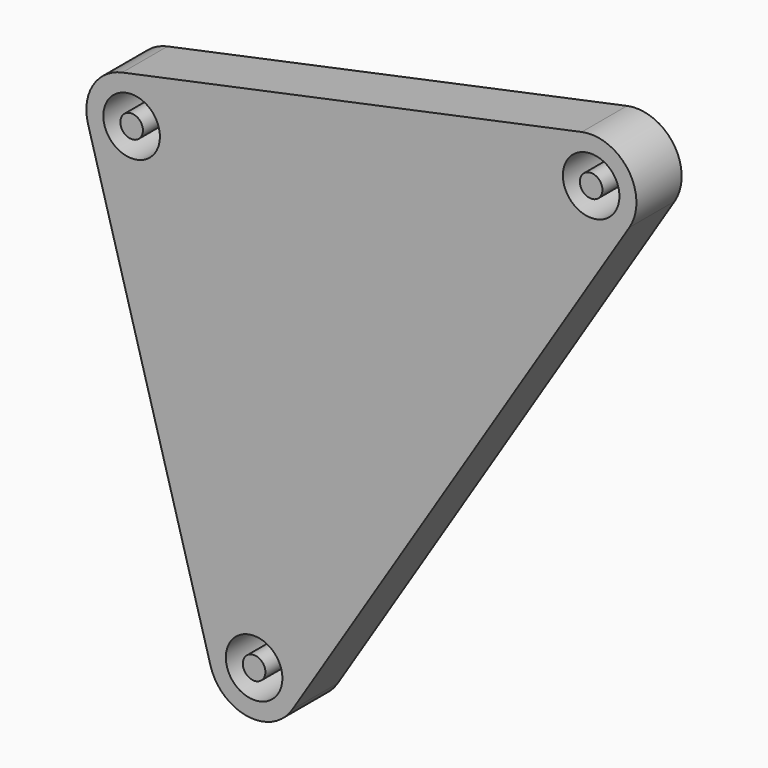
from build123d import *

# Parameters (mm, degrees)
F0_R     = 1
F1_DEPTH = 5
F0_R_2   = 2.5


with BuildPart() as f1:
    # F0 (on Front) → F1 (new body)
    with BuildSketch(Plane.XZ):
        with Locations((-10.8230100318, 38.6118175414)):
            Circle(F0_R)
    extrude(amount=F1_DEPTH)


with BuildPart() as f1b:
    # F0 (on Front) → F1, piece 2 (new body)
    with BuildSketch(Plane.XZ):
        with BuildLine():
            Line((-14.6745629038, 37.5322155432), (-3.851552872, -1.0796019982))
            ThreePointArc((-3.851552872, -1.0796019982), (-0.5773645618, -3.9581119442), (3.3826653178, -2.1348478512))
            Line((3.3826653178, -2.1348478512), (33.1637928422, 45.053333332))
            ThreePointArc((33.1637928422, 45.053333332), (33.0643281958, 49.4730429626), (28.9544900649, 51.1018329958))
            Line((28.9544900649, 51.1018329958), (-11.6496474913, 42.5254693541))
            ThreePointArc((-11.6496474913, 42.5254693541), (-14.2441958057, 40.6843734275), (-14.6745629038, 37.5322155432))
        make_face()
        Circle(F0_R_2, mode=Mode.SUBTRACT)
        with Locations((-10.8230100318, 38.6118175414)):
            Circle(F0_R_2, mode=Mode.SUBTRACT)
        with Locations((29.7811275244, 47.1881811832)):
            Circle(F0_R_2, mode=Mode.SUBTRACT)
    extrude(amount=F1_DEPTH)


with BuildPart() as f1c:
    # F0 (on Front) → F1, piece 3 (new body)
    with BuildSketch(Plane.XZ):
        with Locations((29.7811275244, 47.1881811832)):
            Circle(F0_R)
    extrude(amount=F1_DEPTH)


with BuildPart() as f1d:
    # F0 (on Front) → F1, piece 4 (new body)
    with BuildSketch(Plane.XZ):
        Circle(F0_R)
    extrude(amount=F1_DEPTH)


solid = Compound([f1.part, f1b.part, f1c.part, f1d.part])
